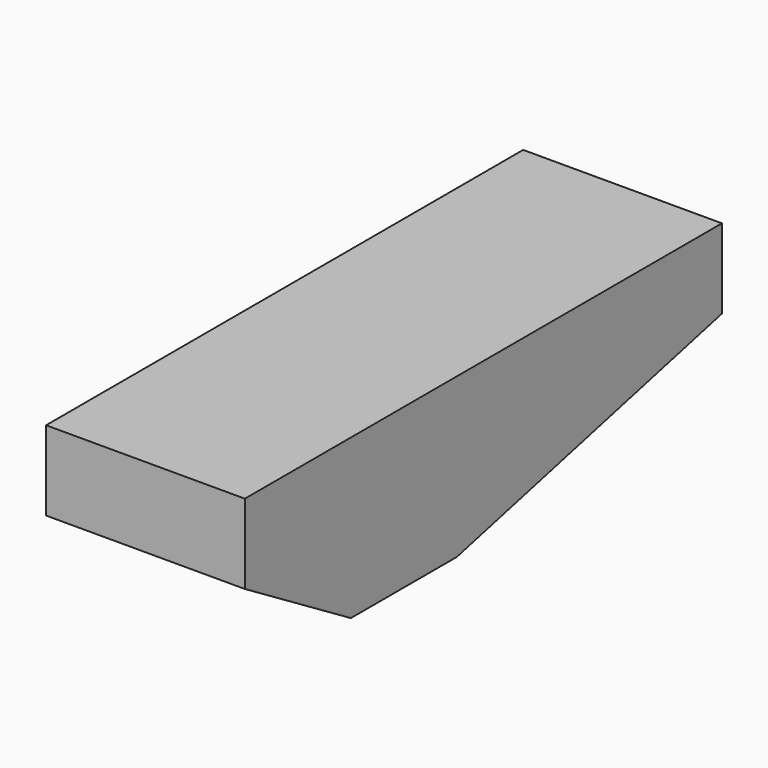
from build123d import *

# Parameters (mm, degrees)
F0_W     = 3000
F0_H     = 9000
F1_DEPTH = 2400
F3_DEPTH = 3000.001


with BuildPart() as f1:
    # F0 (on Top) → F1 (new body)
    with BuildSketch(Plane.XY):
        with Locations((1500, 4500)):
            Rectangle(F0_W, F0_H)
    extrude(amount=-F1_DEPTH)

    # F2 (on face) → F3 (cut, through all)
    with BuildSketch(Plane.YZ.offset(3000)):
        Polygon((0, -1200), (0, -2400), (2000, -2400), align=None)
        Polygon((9000, -1200), (4000, -2400), (9000, -2400), align=None)
    extrude(amount=-F3_DEPTH, mode=Mode.SUBTRACT)


solid = f1.part
